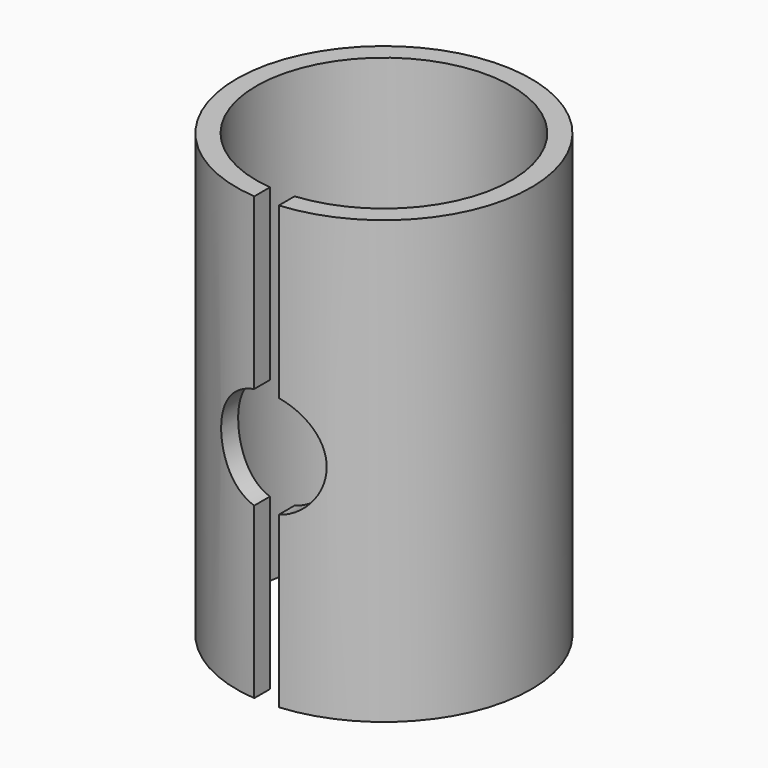
from build123d import *

# Parameters (mm, degrees)
SKETCH037_R       = 30
SKETCH037_R_2     = 26
PAD018_DEPTH      = 45
PAD018_DEPTH_BACK = 45
SKETCH038_R       = 10.75
POCKET020_DEPTH   = 30.001
SKETCH053_W       = 5
SKETCH053_H       = 90
POCKET025_DEPTH   = 30.001


with BuildPart() as part:
    # Sketch037 → Pad018 (new body, two sides)
    with BuildSketch(Plane.XY) as pad018_sk:
        Circle(SKETCH037_R)
        Circle(SKETCH037_R_2, mode=Mode.SUBTRACT)
    extrude(amount=PAD018_DEPTH)
    extrude(pad018_sk.sketch, amount=-PAD018_DEPTH_BACK)

    # Sketch038 → Pocket020 (cut, through all)
    with BuildSketch(Plane.XZ):
        Circle(SKETCH038_R)
    extrude(amount=POCKET020_DEPTH, mode=Mode.SUBTRACT)

    # Sketch053 → Pocket025 (cut, through all)
    with BuildSketch(Plane.XZ):
        Rectangle(SKETCH053_W, SKETCH053_H)
    extrude(amount=POCKET025_DEPTH, mode=Mode.SUBTRACT)


with BuildPart() as part_1:
    # Body016 placement: moved
    add(part.part.moved(Location((0, 0, 220))))


solid = part_1.part
